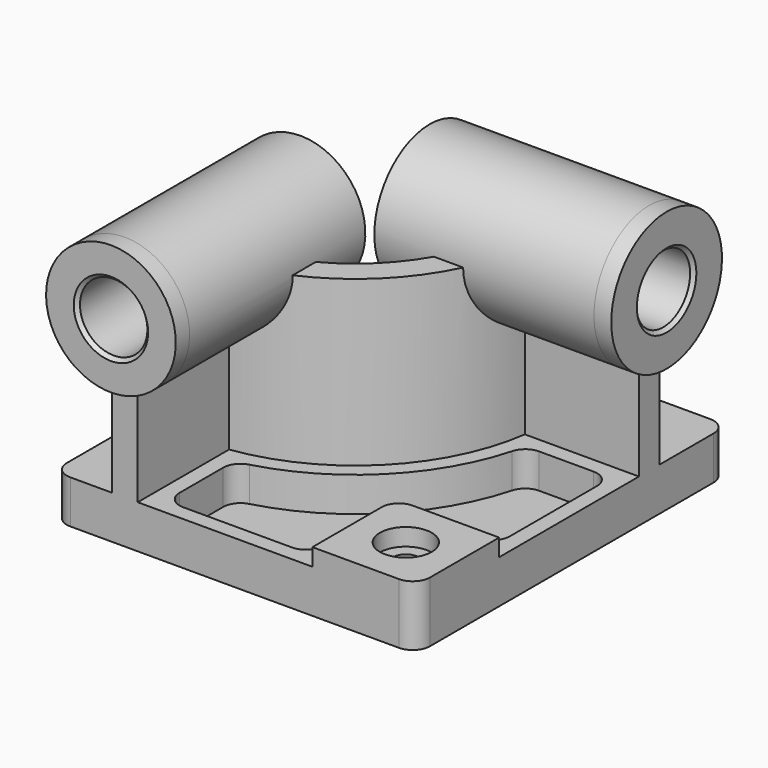
from build123d import *

# Parameters (mm, degrees)
F0_W            = 5334
F0_H            = 5715
F1_DEPTH        = 635
F3_DEPTH        = 2413
F5_DEPTH        = 254
F5_DEPTH_BACK   = 3225.8
F7_DEPTH        = 254
F7_DEPTH_BACK   = 3225.8
F8_W            = 1524
F8_H            = 1524
F9_DEPTH        = 254
F10_R           = 254
F12_DEPTH       = 508
F14_D           = 381
F14_CBORE_D     = 762
F14_CBORE_DEPTH = 254
F15_R           = 254
F16_R           = 495.3
F17_DEPTH       = 4470.4
F18_R           = 495.3
F19_DEPTH       = 3835.4
F20_SIZE        = 50.8
F21_R           = 254


with BuildPart() as f1:
    # F0 (on Top) → F1 (new body)
    with BuildSketch(Plane.XY):
        with Locations((69.6604360002, 0)):
            Rectangle(F0_W, F0_H)
    extrude(amount=F1_DEPTH)

    # F2 (on face) → F3 (join)
    with BuildSketch(Plane.XY.offset(635)):
        with BuildLine():
            Line((-1733.7395639998, -825.5), (-1733.7395639998, -2857.5))
            Line((-1733.7395639998, -2857.5), (-1352.7395639998, -2857.5))
            Line((-1352.7395639998, -2857.5), (-1352.7395639998, -1180.6381436451))
            ThreePointArc((-1352.7395639998, -1180.6381436451), (259.8772948776, -380.7168588774), (1059.7985796453, 1231.9))
            Line((1059.7985796453, 1231.9), (2736.6604360002, 1231.9))
            Line((2736.6604360002, 1231.9), (2736.6604360002, 1612.9))
            Line((2736.6604360002, 1612.9), (704.6604360002, 1612.9))
            ThreePointArc((704.6604360002, 1612.9), (-9.5303887545, -111.3091752453), (-1733.7395639998, -825.5))
        make_face()
    extrude(amount=F3_DEPTH)

    # F4 (on face) → F5 (join, two sides)
    with BuildSketch(Plane.XZ.offset(2857.5)) as f5_sk:
        with BuildLine():
            ThreePointArc((-1352.7395639998, 2114.7444079996), (-805.4362365473, 2445.5861057379), (-590.7395639998, 3048))
            ThreePointArc((-590.7395639998, 3048), (-2145.6534582619, 3785.8033274525), (-1733.7395639998, 2114.7444079996))
            Line((-1733.7395639998, 2114.7444079996), (-1733.7395639998, 3048))
            Line((-1733.7395639998, 3048), (-1352.7395639998, 3048))
            Line((-1352.7395639998, 3048), (-1352.7395639998, 2114.7444079996))
        make_face()
        with BuildLine():
            Line((-1733.7395639998, 3048), (-1733.7395639998, 2114.7444079996))
            ThreePointArc((-1733.7395639998, 2114.7444079996), (-1543.2395639998, 2095.5), (-1352.7395639998, 2114.7444079996))
            Line((-1352.7395639998, 2114.7444079996), (-1352.7395639998, 3048))
            Line((-1352.7395639998, 3048), (-1733.7395639998, 3048))
        make_face()
    extrude(amount=F5_DEPTH)
    extrude(f5_sk.sketch, amount=-F5_DEPTH_BACK)

    # F6 (on face) → F7 (join, two sides)
    with BuildSketch(Plane.YZ.offset(2736.6604360002)) as f7_sk:
        with BuildLine():
            ThreePointArc((1612.9, 2050.0191635106), (2205.2805783771, 2400.4245217737), (2438.4, 3048))
            ThreePointArc((2438.4, 3048), (774.8245217737, 3830.880578377), (1231.9, 2050.0191635106))
            Line((1231.9, 2050.0191635106), (1231.9, 3048))
            Line((1231.9, 3048), (1612.9, 3048))
            Line((1612.9, 3048), (1612.9, 2050.0191635106))
        make_face()
        with BuildLine():
            Line((1231.9, 3048), (1231.9, 2050.0191635106))
            ThreePointArc((1231.9, 2050.0191635106), (1422.4, 2032), (1612.9, 2050.0191635106))
            Line((1612.9, 2050.0191635106), (1612.9, 3048))
            Line((1612.9, 3048), (1231.9, 3048))
        make_face()
    extrude(amount=F7_DEPTH)
    extrude(f7_sk.sketch, amount=-F7_DEPTH_BACK)

    # F8 (on face) → F9 (join)
    with BuildSketch(Plane.XY.offset(635)):
        with Locations((1974.6604360002, -2095.5)):
            Rectangle(F8_W, F8_H)
    extrude(amount=F9_DEPTH)

    # F10
    f10_edges = [f1.edges().sort_by_distance(p)[0] for p in [
        (1212.660436, -1333.5, 762),
    ]]
    fillet(f10_edges, radius=F10_R)

    # F11 (on face) → F12 (cut)
    with BuildSketch(Plane.XY.offset(635)):
        with BuildLine():
            ThreePointArc((1252.6783304015, 1003.3), (421.5219050568, -542.3614690566), (-1124.1395639998, -1373.5178944013))
            Line((-1124.1395639998, -1373.5178944013), (-1124.1395639998, -2628.9))
            Line((-1124.1395639998, -2628.9), (984.0604360002, -2628.9))
            Line((984.0604360002, -2628.9), (984.0604360002, -1587.5))
            ThreePointArc((984.0604360002, -1587.5), (1125.4107033996, -1246.2502673994), (1466.6604360002, -1104.9))
            Line((1466.6604360002, -1104.9), (2508.0604360002, -1104.9))
            Line((2508.0604360002, -1104.9), (2508.0604360002, 1003.3))
            Line((2508.0604360002, 1003.3), (1252.6783304015, 1003.3))
        make_face()
    extrude(amount=-F12_DEPTH, mode=Mode.SUBTRACT)

    # F14 (through all)
    with Locations(Plane.XY.offset(889)):
        with Locations((1974.6604360002, -2095.5)):
            CounterBoreHole(F14_D / 2, F14_CBORE_D / 2, F14_CBORE_DEPTH)

    # F15
    f15_edges = [f1.edges().sort_by_distance(p)[0] for p in [
        (1252.67833, 1003.3, 381),
        (2508.060436, 1003.3, 381),
        (2508.060436, -1104.9, 381),
        (-1124.139564, -1373.517894, 381),
        (-1124.139564, -2628.9, 381),
        (984.060436, -2628.9, 381),
    ]]
    fillet(f15_edges, radius=F15_R)

    # F16 (on face) → F17 (cut)
    with BuildSketch(Plane.XZ.offset(3111.5)):
        with Locations((-1543.2395639998, 3048)):
            Circle(F16_R)
    extrude(amount=-F17_DEPTH, mode=Mode.SUBTRACT)

    # F18 (on face) → F19 (cut)
    with BuildSketch(Plane.YZ.offset(2990.6604360002)):
        with Locations((1422.4, 3048)):
            Circle(F18_R)
    extrude(amount=-F19_DEPTH, mode=Mode.SUBTRACT)

    # F20
    f20_edges = [f1.edges().sort_by_distance(p)[0] for p in [
        (-2038.539564, -3111.5, 3048),
        (2990.660436, 927.1, 3048),
        (-2038.539564, 368.3, 3048),
        (-489.139564, 927.1, 3048),
    ]]
    chamfer(f20_edges, length=F20_SIZE)

    # F21
    f21_edges = [f1.edges().sort_by_distance(p)[0] for p in [
        (2736.660436, -2857.5, 444.5),
        (2736.660436, 2857.5, 317.5),
        (-2597.339564, -2857.5, 317.5),
        (-2597.339564, 2857.5, 317.5),
    ]]
    fillet(f21_edges, radius=F21_R)


solid = f1.part
